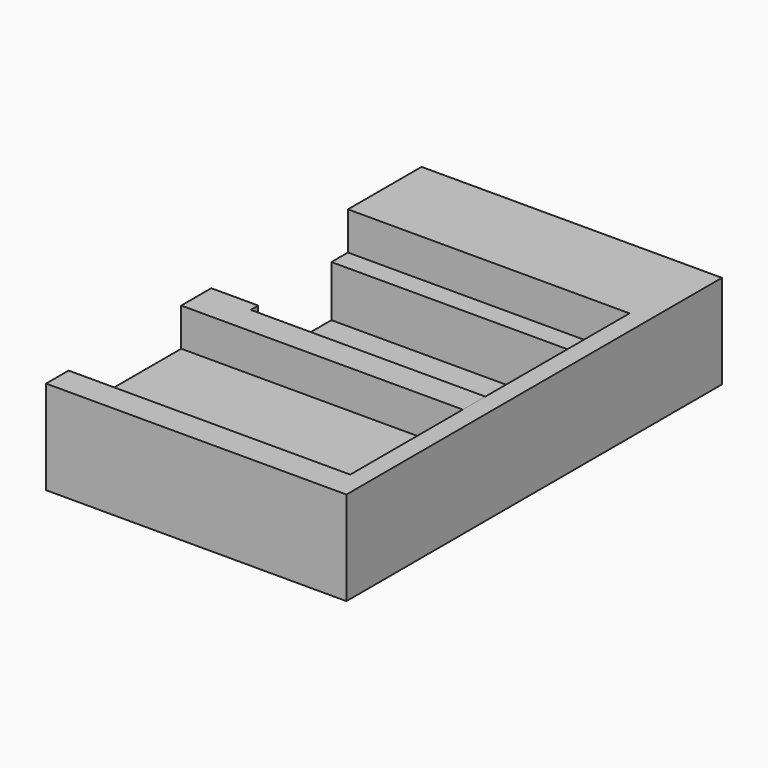
from build123d import *

# Parameters (mm, degrees)
F0_W     = 29
F0_H     = 14.8
F1_DEPTH = 0.5
F2_DEPTH = 5.95
F0_W_2   = 30
F0_H_2   = 15
F3_DEPTH = 5.95
F4_DEPTH = 10
F5_DEPTH = 10


with BuildPart() as f1:
    # F0 (on Top) → F1 (new body)
    with BuildSketch(Plane.XY):
        with Locations((5.996847, 3.792403)):
            Rectangle(F0_W, F0_H)
    extrude(amount=F1_DEPTH)

    # F0 (on Top) → F2 (join)
    with BuildSketch(Plane.XY):
        Polygon((-3.503153, 13.392403), (-8.503153, 13.392403), (-8.503153, 11.192403), (20.496847, 11.192403), (20.496847, -3.607597), (-8.503153, -3.607597), (-8.503153, -4.807597), (-3.503153, -4.807597), (-3.503153, -5.807597), (21.496847, -5.807597), (21.496847, 13.392403), align=None)
    extrude(amount=F2_DEPTH)


with BuildPart() as f3:
    # F0 (on Top) → F3 (new body)
    with BuildSketch(Plane.XY):
        with Locations((6.496847, -16.307597)):
            Rectangle(F0_W_2, F0_H_2)
    extrude(amount=F3_DEPTH)


with BuildPart() as f4:
    # F0 (on Top) → F4 (new body)
    with BuildSketch(Plane.XY):
        Polygon((23.496847, 23.192403), (-8.503153, 23.192403), (-8.503153, 13.392403), (-3.503153, 13.392403), (21.496847, 13.392403), (21.496847, -5.807597), (21.496847, -8.807597), (21.496847, -23.807597), (-8.503153, -23.807597), (-8.503153, -26.807597), (23.496847, -26.807597), align=None)
        Polygon((23.496847, 23.192403), (-8.503153, 23.192403), (-8.503153, 13.392403), (-3.503153, 13.392403), (21.496847, 13.392403), (21.496847, -5.807597), (21.496847, -8.807597), (21.496847, -23.807597), (-8.503153, -23.807597), (-8.503153, -26.807597), (23.496847, -26.807597), align=None)
    extrude(amount=F4_DEPTH)


with BuildPart() as f5:
    # F0 (on Top) → F5 (new body)
    with BuildSketch(Plane.XY):
        Polygon((-3.503153, -4.807597), (-8.503153, -4.807597), (-8.503153, -8.807597), (21.496847, -8.807597), (21.496847, -5.807597), (-3.503153, -5.807597), align=None)
    extrude(amount=F5_DEPTH)


solid = Compound([f1.part, f3.part, f4.part, f5.part])
